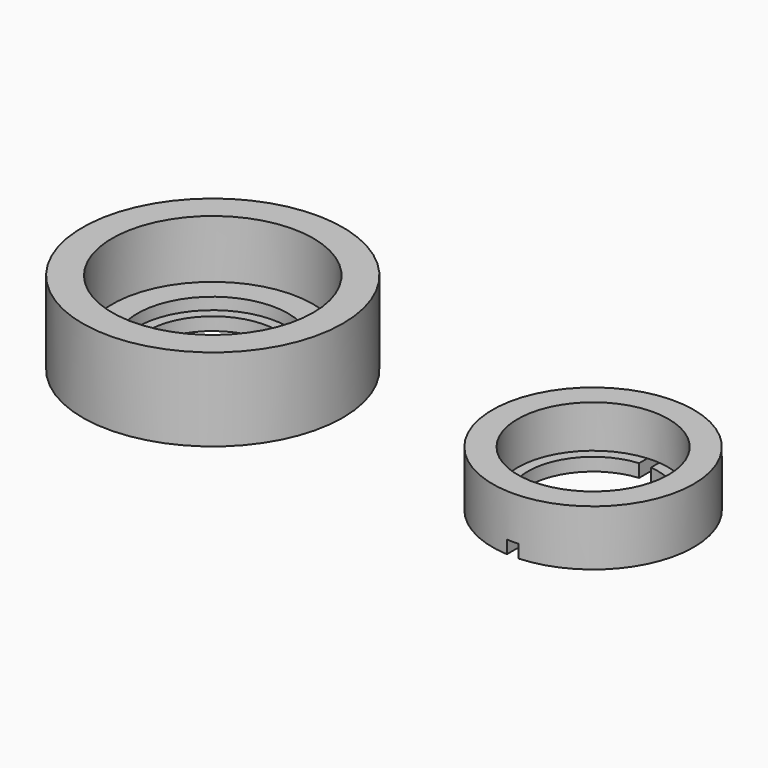
from build123d import *

# Parameters (mm, degrees)
F0_R      = 11
F0_R_2    = 5.5
F1_DEPTH  = 1.1
F2_R      = 11
F2_R_2    = 6.375
F3_DEPTH  = 1
F4_R      = 11
F4_R_2    = 8.5
F5_DEPTH  = 4.9
F6_R      = 8.5
F6_R_2    = 5.5
F7_DEPTH  = 1.1
F8_R      = 8.5
F8_R_2    = 6.375
F9_DEPTH  = 3.6
F11_DEPTH = 1.1


with BuildPart() as f1:
    # F0 (on Top) → F1 (new body)
    with BuildSketch(Plane.XY):
        Circle(F0_R)
        Circle(F0_R_2, mode=Mode.SUBTRACT)
    extrude(amount=F1_DEPTH)

    # F2 (on face) → F3 (join)
    with BuildSketch(Plane.XY.offset(1.1)):
        Circle(F2_R)
        Circle(F2_R_2, mode=Mode.SUBTRACT)
    extrude(amount=F3_DEPTH)

    # F4 (on face) → F5 (join)
    with BuildSketch(Plane.XY.offset(2.1)):
        Circle(F4_R)
        Circle(F4_R_2, mode=Mode.SUBTRACT)
    extrude(amount=F5_DEPTH)


with BuildPart() as f7:
    # F6 (on Top) → F7 (new body)
    with BuildSketch(Plane.XY):
        with Locations((32.1412831545, 0)):
            Circle(F6_R)
        with Locations((32.1412831545, 0)):
            Circle(F6_R_2, mode=Mode.SUBTRACT)
    extrude(amount=F7_DEPTH)

    # F8 (on face) → F9 (join)
    with BuildSketch(Plane.XY.offset(1.1)):
        with Locations((32.1412831545, 0)):
            Circle(F8_R)
        with Locations((32.1412831545, 0)):
            Circle(F8_R_2, mode=Mode.SUBTRACT)
    extrude(amount=F9_DEPTH)

    # F10 (on face) → F11 (cut)
    with BuildSketch(Plane(origin=(0, 0, 0), x_dir=(1, 0, 0), z_dir=(0, 0, -1))):
        with BuildLine():
            ThreePointArc((31.6412831545, 5.4772255751), (32.1412831545, 5.5), (32.6412831545, 5.4772255751))
            Line((32.6412831545, 5.4772255751), (32.6412831545, 8.4852813742))
            ThreePointArc((32.6412831545, 8.4852813742), (32.1412831545, 8.5), (31.6412831545, 8.4852813742))
            Line((31.6412831545, 8.4852813742), (31.6412831545, 5.4772255751))
        make_face()
        with BuildLine():
            Line((32.6412831545, -8.4852813742), (32.6412831545, -5.4772255751))
            ThreePointArc((32.6412831545, -5.4772255751), (32.1412831545, -5.5), (31.6412831545, -5.4772255751))
            Line((31.6412831545, -5.4772255751), (31.6412831545, -8.4852813742))
            ThreePointArc((31.6412831545, -8.4852813742), (32.1412831545, -8.5), (32.6412831545, -8.4852813742))
        make_face()
    extrude(amount=-F11_DEPTH, mode=Mode.SUBTRACT)


solid = Compound([f1.part, f7.part])
